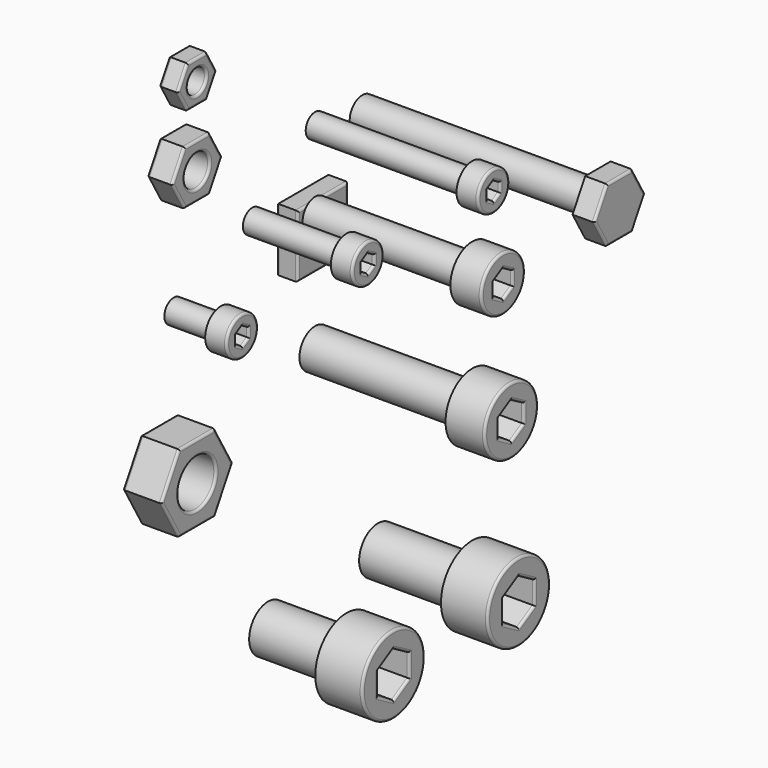
from build123d import *

# Parameters (mm, degrees)
F0_R      = 1.5
F1_DEPTH  = 2.4
F0_R_2    = 2
F2_DEPTH  = 3.2
F0_R_3    = 3
F3_DEPTH  = 4.95
F0_W      = 8
F0_H      = 8
F0_R_4    = 2.5
F4_DEPTH  = 2.7
F6_R      = 1.5
F7_DEPTH  = 20
F6_R_2    = 2
F8_DEPTH  = 20
F6_R_3    = 3
F9_DEPTH  = 12
F6_R_4    = 2.5
F10_DEPTH = 2.75
F6_R_5    = 3.475
F11_DEPTH = 3.95
F6_R_6    = 4.975
F12_DEPTH = 5.95
F13_DEPTH = 2.8
F14_DEPTH = 30
F6_R_7    = 4.25
F15_DEPTH = 5
F16_DEPTH = 20
F17_DEPTH = 12
F18_DEPTH = 2.75
F19_DEPTH = 10
F20_DEPTH = 6
F21_DEPTH = 6
F22_DEPTH = 2.75
F23_R     = 0.3
F23_2_R   = 0.3
F23_3_R   = 0.3
F23_4_R   = 0.3
F23_5_R   = 0.3
F23_6_R   = 0.3
F23_7_R   = 0.3
F23_8_R   = 0.3
F23_9_R   = 0.3
F23_10_R  = 0.3
F23_11_R  = 0.3
F23_12_R  = 0.3


with BuildPart() as f1:
    # F0 (on Right) → F1 (new body)
    with BuildSketch(Plane.YZ):
        Polygon((-29.8990511575, 36.9805877914), (-26.8102272174, 36.9805877914), (-25.2658152473, 39.6555877914), (-26.8102272174, 42.3305877914), (-29.8990511575, 42.3305877914), (-31.4434631276, 39.6555877914), align=None)
        with Locations((-28.3546391875, 39.6555877914)):
            Circle(F0_R, mode=Mode.SUBTRACT)
    extrude(amount=-F1_DEPTH)

    # F23#4
    f23_4_edges = [f1.edges().sort_by_distance(p)[0] for p in [
        (0, -30.671257, 38.318088),
        (0, -28.354639, 36.980588),
        (0, -26.038021, 38.318088),
        (0, -26.038021, 40.993088),
        (0, -28.354639, 42.330588),
        (0, -30.671257, 40.993088),
        (0, -29.854639, 39.655588),
        (-2.4, -30.671257, 38.318088),
        (-2.4, -28.354639, 36.980588),
        (-2.4, -26.038021, 38.318088),
        (-2.4, -26.038021, 40.993088),
        (-2.4, -28.354639, 42.330588),
        (-2.4, -30.671257, 40.993088),
        (-2.4, -29.854639, 39.655588),
    ]]
    fillet(f23_4_edges, radius=F23_4_R)


with BuildPart() as f2:
    # F0 (on Right) → F2 (new body)
    with BuildSketch(Plane.YZ):
        Polygon((-30.3464976162, 26.2055877914), (-26.3627807588, 26.2055877914), (-24.37092233, 29.6555877914), (-26.3627807588, 33.1055877914), (-30.3464976162, 33.1055877914), (-32.3383560449, 29.6555877914), align=None)
        with Locations((-28.3546391875, 29.6555877914)):
            Circle(F0_R_2, mode=Mode.SUBTRACT)
    extrude(amount=-F2_DEPTH)

    # F23
    f23_edges = [f2.edges().sort_by_distance(p)[0] for p in [
        (-3.2, -28.354639, 26.205588),
        (-3.2, -25.366852, 27.930588),
        (-3.2, -25.366852, 31.380588),
        (-3.2, -28.354639, 33.105588),
        (-3.2, -31.342427, 31.380588),
        (-3.2, -31.342427, 27.930588),
        (-3.2, -30.354639, 29.655588),
        (0, -28.354639, 26.205588),
        (0, -25.366852, 27.930588),
        (0, -25.366852, 31.380588),
        (0, -28.354639, 33.105588),
        (0, -31.342427, 31.380588),
        (0, -31.342427, 27.930588),
        (0, -30.354639, 29.655588),
    ]]
    fillet(f23_edges, radius=F23_R)


with BuildPart() as f3:
    # F0 (on Right) → F3 (new body)
    with BuildSketch(Plane.YZ):
        Polygon((-31.1980892632, -10.2694122086), (-25.5111891117, -10.2694122086), (-22.6677390359, -5.3444122086), (-25.5111891117, -0.4194122086), (-31.1980892632, -0.4194122086), (-34.041539339, -5.3444122086), align=None)
        with Locations((-28.3546391875, -5.3444122086)):
            Circle(F0_R_3, mode=Mode.SUBTRACT)
    extrude(amount=-F3_DEPTH)

    # F23#2
    f23_2_edges = [f3.edges().sort_by_distance(p)[0] for p in [
        (-4.95, -32.619814, -7.806912),
        (-4.95, -28.354639, -10.269412),
        (-4.95, -24.089464, -7.806912),
        (-4.95, -24.089464, -2.881912),
        (-4.95, -28.354639, -0.419412),
        (-4.95, -32.619814, -2.881912),
        (-4.95, -31.354639, -5.344412),
        (0, -32.619814, -7.806912),
        (0, -28.354639, -10.269412),
        (0, -24.089464, -7.806912),
        (0, -24.089464, -2.881912),
        (0, -28.354639, -0.419412),
        (0, -32.619814, -2.881912),
        (0, -31.354639, -5.344412),
    ]]
    fillet(f23_2_edges, radius=F23_2_R)


with BuildPart() as f4:
    # F0 (on Right) → F4 (new body)
    with BuildSketch(Plane.YZ):
        with Locations((-8.3546391875, 14.6555877914)):
            Rectangle(F0_W, F0_H)
        with Locations((-8.3546391875, 14.6555877914)):
            Circle(F0_R_4, mode=Mode.SUBTRACT)
    extrude(amount=-F4_DEPTH)

    # F23#3
    f23_3_edges = [f4.edges().sort_by_distance(p)[0] for p in [
        (0, -8.354639, 10.655588),
        (0, -4.354639, 14.655588),
        (0, -8.354639, 18.655588),
        (0, -12.354639, 14.655588),
        (0, -10.854639, 14.655588),
        (-2.7, -8.354639, 10.655588),
        (-2.7, -4.354639, 14.655588),
        (-2.7, -8.354639, 18.655588),
        (-2.7, -12.354639, 14.655588),
        (-2.7, -10.854639, 14.655588),
    ]]
    fillet(f23_3_edges, radius=F23_3_R)


with BuildPart() as f7:
    # F6 (on offset) → F7 (new body)
    with BuildSketch(Plane.YZ.offset(35)):
        with Locations((-28.3546391875, 39.6555877914)):
            Circle(F6_R)
        Polygon((-28.3546391875, 40.8102883298), (-27.3546391875, 40.2329380606), (-27.3546391875, 39.0782375223), (-28.3546391875, 38.5008872531), (-29.3546391875, 39.0782375223), (-29.3546391875, 40.2329380606), align=None, mode=Mode.SUBTRACT)
        Polygon((-27.3546391875, 39.0782375223), (-27.3546391875, 40.2329380606), (-28.3546391875, 40.8102883298), (-29.3546391875, 40.2329380606), (-29.3546391875, 39.0782375223), (-28.3546391875, 38.5008872531), align=None)
    extrude(amount=-F7_DEPTH)

    # F6 (on offset) → F10 (join)
    with BuildSketch(Plane.YZ.offset(35)):
        with Locations((-28.3546391875, 39.6555877914)):
            Circle(F6_R_4)
        with Locations((-28.3546391875, 39.6555877914)):
            Circle(F6_R, mode=Mode.SUBTRACT)
        with Locations((-28.3546391875, 39.6555877914)):
            Circle(F6_R)
        Polygon((-28.3546391875, 40.8102883298), (-27.3546391875, 40.2329380606), (-27.3546391875, 39.0782375223), (-28.3546391875, 38.5008872531), (-29.3546391875, 39.0782375223), (-29.3546391875, 40.2329380606), align=None, mode=Mode.SUBTRACT)
    extrude(amount=F10_DEPTH)

    # F23#7
    f23_7_edges = [f7.edges().sort_by_distance(p)[0] for p in [
        (37.75, -30.854639, 39.655588),
        (37.75, -28.854639, 38.789562),
        (37.75, -29.354639, 39.655588),
        (37.75, -28.854639, 40.521613),
        (37.75, -27.854639, 40.521613),
        (37.75, -27.354639, 39.655588),
        (37.75, -27.854639, 38.789562),
    ]]
    fillet(f23_7_edges, radius=F23_7_R)


with BuildPart() as f8:
    # F6 (on offset) → F8 (new body)
    with BuildSketch(Plane.YZ.offset(35)):
        with Locations((-28.3546391875, 29.6555877914)):
            Circle(F6_R_2)
        Polygon((-28.3546391875, 31.387638599), (-26.8546391875, 30.5216131952), (-26.8546391875, 28.7895623877), (-28.3546391875, 27.9235369839), (-29.8546391875, 28.7895623877), (-29.8546391875, 30.5216131952), align=None, mode=Mode.SUBTRACT)
        Polygon((-26.8546391875, 28.7895623877), (-26.8546391875, 30.5216131952), (-28.3546391875, 31.387638599), (-29.8546391875, 30.5216131952), (-29.8546391875, 28.7895623877), (-28.3546391875, 27.9235369839), align=None)
    extrude(amount=-F8_DEPTH)

    # F6 (on offset) → F11 (join)
    with BuildSketch(Plane.YZ.offset(35)):
        with Locations((-28.3546391875, 29.6555877914)):
            Circle(F6_R_5)
        with Locations((-28.3546391875, 29.6555877914)):
            Circle(F6_R_2, mode=Mode.SUBTRACT)
        with Locations((-28.3546391875, 29.6555877914)):
            Circle(F6_R_2)
        Polygon((-28.3546391875, 31.387638599), (-26.8546391875, 30.5216131952), (-26.8546391875, 28.7895623877), (-28.3546391875, 27.9235369839), (-29.8546391875, 28.7895623877), (-29.8546391875, 30.5216131952), align=None, mode=Mode.SUBTRACT)
    extrude(amount=F11_DEPTH)

    # F23#8
    f23_8_edges = [f8.edges().sort_by_distance(p)[0] for p in [
        (38.95, -29.104639, 30.954626),
        (38.95, -27.604639, 30.954626),
        (38.95, -26.854639, 29.655588),
        (38.95, -27.604639, 28.35655),
        (38.95, -29.104639, 28.35655),
        (38.95, -29.854639, 29.655588),
        (38.95, -31.829639, 29.655588),
    ]]
    fillet(f23_8_edges, radius=F23_8_R)


with BuildPart() as f9:
    # F6 (on offset) → F9 (new body)
    with BuildSketch(Plane.YZ.offset(35)):
        with Locations((-28.3546391875, -5.3444122086)):
            Circle(F6_R_3)
        Polygon((-28.3546391875, -2.4576608626), (-25.8546391875, -3.9010365356), (-25.8546391875, -6.7877878815), (-28.3546391875, -8.2311635545), (-30.8546391875, -6.7877878815), (-30.8546391875, -3.9010365356), align=None, mode=Mode.SUBTRACT)
        Polygon((-25.8546391875, -6.7877878815), (-25.8546391875, -3.9010365356), (-28.3546391875, -2.4576608626), (-30.8546391875, -3.9010365356), (-30.8546391875, -6.7877878815), (-28.3546391875, -8.2311635545), align=None)
    extrude(amount=-F9_DEPTH)

    # F6 (on offset) → F12 (join)
    with BuildSketch(Plane.YZ.offset(35)):
        with Locations((-28.3546391875, -5.3444122086)):
            Circle(F6_R_6)
        with Locations((-28.3546391875, -5.3444122086)):
            Circle(F6_R_3, mode=Mode.SUBTRACT)
        with Locations((-28.3546391875, -5.3444122086)):
            Circle(F6_R_3)
        Polygon((-28.3546391875, -2.4576608626), (-25.8546391875, -3.9010365356), (-25.8546391875, -6.7877878815), (-28.3546391875, -8.2311635545), (-30.8546391875, -6.7877878815), (-30.8546391875, -3.9010365356), align=None, mode=Mode.SUBTRACT)
    extrude(amount=F12_DEPTH)

    # F23#11
    f23_11_edges = [f9.edges().sort_by_distance(p)[0] for p in [
        (40.95, -27.104639, -3.179349),
        (40.95, -25.854639, -5.344412),
        (40.95, -27.104639, -7.509476),
        (40.95, -29.604639, -7.509476),
        (40.95, -30.854639, -5.344412),
        (40.95, -29.604639, -3.179349),
        (40.95, -33.329639, -5.344412),
    ]]
    fillet(f23_11_edges, radius=F23_11_R)


with BuildPart() as f13:
    # F6 (on offset) → F13 (new body)
    with BuildSketch(Plane.YZ.offset(35)):
        Polygon((-6.3339132453, 33.1555877914), (-10.3753651296, 33.1555877914), (-12.3960910718, 29.6555877914), (-10.3753651296, 26.1555877914), (-6.3339132453, 26.1555877914), (-4.3131873031, 29.6555877914), align=None)
        with Locations((-8.3546391875, 29.6555877914)):
            Circle(F6_R_2, mode=Mode.SUBTRACT)
        with Locations((-8.3546391875, 29.6555877914)):
            Circle(F6_R_2)
    extrude(amount=F13_DEPTH)

    # F6 (on offset) → F14 (join)
    with BuildSketch(Plane.YZ.offset(35)):
        with Locations((-8.3546391875, 29.6555877914)):
            Circle(F6_R_2)
    extrude(amount=-F14_DEPTH)

    # F23#9
    f23_9_edges = [f13.edges().sort_by_distance(p)[0] for p in [
        (37.8, -5.32355, 31.405588),
        (37.8, -8.354639, 33.155588),
        (37.8, -11.385728, 31.405588),
        (37.8, -11.385728, 27.905588),
        (37.8, -8.354639, 26.155588),
        (37.8, -5.32355, 27.905588),
    ]]
    fillet(f23_9_edges, radius=F23_9_R)


with BuildPart() as f15:
    # F6 (on offset) → F15 (new body)
    with BuildSketch(Plane.YZ.offset(35)):
        with Locations((-28.3546391875, 14.6555877914)):
            Circle(F6_R_7)
        with Locations((-28.3546391875, 14.6555877914)):
            Circle(F6_R_4, mode=Mode.SUBTRACT)
        with Locations((-28.3546391875, 14.6555877914)):
            Circle(F6_R_4)
        Polygon((-28.3546391875, 16.9649888682), (-26.3546391875, 15.8102883298), (-26.3546391875, 13.5008872531), (-28.3546391875, 12.3461867147), (-30.3546391875, 13.5008872531), (-30.3546391875, 15.8102883298), align=None, mode=Mode.SUBTRACT)
    extrude(amount=F15_DEPTH)

    # F6 (on offset) → F16 (join)
    with BuildSketch(Plane.YZ.offset(35)):
        with Locations((-28.3546391875, 14.6555877914)):
            Circle(F6_R_4)
        Polygon((-28.3546391875, 16.9649888682), (-26.3546391875, 15.8102883298), (-26.3546391875, 13.5008872531), (-28.3546391875, 12.3461867147), (-30.3546391875, 13.5008872531), (-30.3546391875, 15.8102883298), align=None, mode=Mode.SUBTRACT)
        Polygon((-26.3546391875, 13.5008872531), (-26.3546391875, 15.8102883298), (-28.3546391875, 16.9649888682), (-30.3546391875, 15.8102883298), (-30.3546391875, 13.5008872531), (-28.3546391875, 12.3461867147), align=None)
    extrude(amount=-F16_DEPTH)

    # F23#10
    f23_10_edges = [f15.edges().sort_by_distance(p)[0] for p in [
        (40, -32.604639, 14.655588),
        (40, -29.354639, 16.387639),
        (40, -27.354639, 16.387639),
        (40, -26.354639, 14.655588),
        (40, -27.354639, 12.923537),
        (40, -29.354639, 12.923537),
        (40, -30.354639, 14.655588),
    ]]
    fillet(f23_10_edges, radius=F23_10_R)


with BuildPart() as f17:
    # F6 (on offset) → F17 (new body)
    with BuildSketch(Plane.YZ.offset(35)):
        with Locations((-48.3546391875, 39.6555877914)):
            Circle(F6_R)
        Polygon((-48.3546391875, 40.8102883298), (-47.3546391875, 40.2329380606), (-47.3546391875, 39.0782375223), (-48.3546391875, 38.5008872531), (-49.3546391875, 39.0782375223), (-49.3546391875, 40.2329380606), align=None, mode=Mode.SUBTRACT)
        Polygon((-47.3546391875, 39.0782375223), (-47.3546391875, 40.2329380606), (-48.3546391875, 40.8102883298), (-49.3546391875, 40.2329380606), (-49.3546391875, 39.0782375223), (-48.3546391875, 38.5008872531), align=None)
    extrude(amount=-F17_DEPTH)

    # F6 (on offset) → F18 (join)
    with BuildSketch(Plane.YZ.offset(35)):
        with Locations((-48.3546391875, 39.6555877914)):
            Circle(F6_R_4)
        with Locations((-48.3546391875, 39.6555877914)):
            Circle(F6_R, mode=Mode.SUBTRACT)
        with Locations((-48.3546391875, 39.6555877914)):
            Circle(F6_R)
        Polygon((-48.3546391875, 40.8102883298), (-47.3546391875, 40.2329380606), (-47.3546391875, 39.0782375223), (-48.3546391875, 38.5008872531), (-49.3546391875, 39.0782375223), (-49.3546391875, 40.2329380606), align=None, mode=Mode.SUBTRACT)
    extrude(amount=F18_DEPTH)

    # F23#6
    f23_6_edges = [f17.edges().sort_by_distance(p)[0] for p in [
        (37.75, -49.354639, 39.655588),
        (37.75, -48.854639, 40.521613),
        (37.75, -47.854639, 40.521613),
        (37.75, -47.354639, 39.655588),
        (37.75, -47.854639, 38.789562),
        (37.75, -48.854639, 38.789562),
        (37.75, -50.854639, 39.655588),
    ]]
    fillet(f23_6_edges, radius=F23_6_R)


with BuildPart() as f19:
    # F6 (on offset) → F19 (new body)
    with BuildSketch(Plane.YZ.offset(35)):
        with Locations((-48.3546391875, -5.3444122086)):
            Circle(F6_R_3)
        Polygon((-48.3546391875, -2.4576608626), (-45.8546391875, -3.9010365356), (-45.8546391875, -6.7877878815), (-48.3546391875, -8.2311635545), (-50.8546391875, -6.7877878815), (-50.8546391875, -3.9010365356), align=None, mode=Mode.SUBTRACT)
        Polygon((-45.8546391875, -6.7877878815), (-45.8546391875, -3.9010365356), (-48.3546391875, -2.4576608626), (-50.8546391875, -3.9010365356), (-50.8546391875, -6.7877878815), (-48.3546391875, -8.2311635545), align=None)
    extrude(amount=-F19_DEPTH)

    # F6 (on offset) → F20 (join)
    with BuildSketch(Plane.YZ.offset(35)):
        with Locations((-48.3546391875, -5.3444122086)):
            Circle(F6_R_6)
        with Locations((-48.3546391875, -5.3444122086)):
            Circle(F6_R_3, mode=Mode.SUBTRACT)
        with Locations((-48.3546391875, -5.3444122086)):
            Circle(F6_R_3)
        Polygon((-48.3546391875, -2.4576608626), (-45.8546391875, -3.9010365356), (-45.8546391875, -6.7877878815), (-48.3546391875, -8.2311635545), (-50.8546391875, -6.7877878815), (-50.8546391875, -3.9010365356), align=None, mode=Mode.SUBTRACT)
    extrude(amount=F20_DEPTH)

    # F23#12
    f23_12_edges = [f19.edges().sort_by_distance(p)[0] for p in [
        (41, -49.604639, -3.179349),
        (41, -47.104639, -3.179349),
        (41, -45.854639, -5.344412),
        (41, -47.104639, -7.509476),
        (41, -49.604639, -7.509476),
        (41, -50.854639, -5.344412),
        (41, -53.329639, -5.344412),
    ]]
    fillet(f23_12_edges, radius=F23_12_R)


with BuildPart() as f21:
    # F6 (on offset) → F21 (new body)
    with BuildSketch(Plane.YZ.offset(35)):
        with Locations((-68.3546391875, 39.6555877914)):
            Circle(F6_R)
        Polygon((-68.3546391875, 40.8102883298), (-67.3546391875, 40.2329380606), (-67.3546391875, 39.0782375223), (-68.3546391875, 38.5008872531), (-69.3546391875, 39.0782375223), (-69.3546391875, 40.2329380606), align=None, mode=Mode.SUBTRACT)
        Polygon((-67.3546391875, 39.0782375223), (-67.3546391875, 40.2329380606), (-68.3546391875, 40.8102883298), (-69.3546391875, 40.2329380606), (-69.3546391875, 39.0782375223), (-68.3546391875, 38.5008872531), align=None)
    extrude(amount=-F21_DEPTH)

    # F6 (on offset) → F22 (join)
    with BuildSketch(Plane.YZ.offset(35)):
        with Locations((-68.3546391875, 39.6555877914)):
            Circle(F6_R_4)
        with Locations((-68.3546391875, 39.6555877914)):
            Circle(F6_R, mode=Mode.SUBTRACT)
        with Locations((-68.3546391875, 39.6555877914)):
            Circle(F6_R)
        Polygon((-68.3546391875, 40.8102883298), (-67.3546391875, 40.2329380606), (-67.3546391875, 39.0782375223), (-68.3546391875, 38.5008872531), (-69.3546391875, 39.0782375223), (-69.3546391875, 40.2329380606), align=None, mode=Mode.SUBTRACT)
    extrude(amount=F22_DEPTH)

    # F23#5
    f23_5_edges = [f21.edges().sort_by_distance(p)[0] for p in [
        (37.75, -68.854639, 40.521613),
        (37.75, -67.854639, 40.521613),
        (37.75, -67.354639, 39.655588),
        (37.75, -67.854639, 38.789562),
        (37.75, -68.854639, 38.789562),
        (37.75, -69.354639, 39.655588),
        (37.75, -70.854639, 39.655588),
    ]]
    fillet(f23_5_edges, radius=F23_5_R)


solid = Compound([f1.part, f2.part, f3.part, f4.part, f7.part, f8.part, f9.part, f13.part, f15.part, f17.part, f19.part, f21.part])
